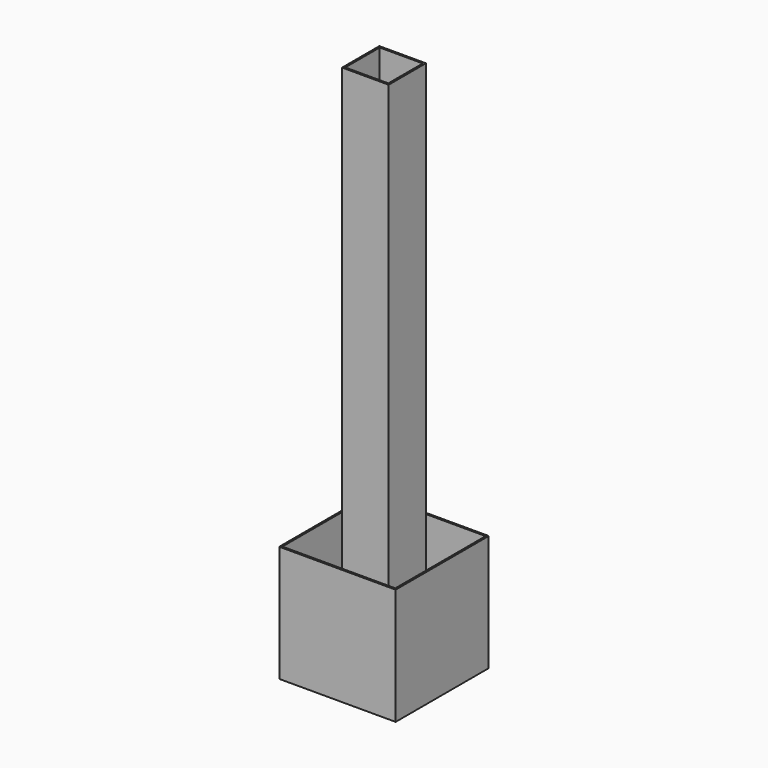
from build123d import *

# Parameters (mm, degrees)
SKETCH004_W   = 100
SKETCH004_H   = 100
PAD002_DEPTH  = 2
SKETCH005_W   = 40
SKETCH005_H   = 40
SKETCH005_W_2 = 37
SKETCH005_H_2 = 37
PAD003_DEPTH  = 458
SKETCH006_W   = 100
SKETCH006_H   = 100
SKETCH006_W_2 = 97
SKETCH006_H_2 = 97
PAD004_DEPTH  = 100


with BuildPart() as part:
    # Sketch004 → Pad002 (new body)
    with BuildSketch(Plane.XY):
        with Locations((-1000, -180)):
            Rectangle(SKETCH004_W, SKETCH004_H)
    extrude(amount=PAD002_DEPTH)

    # Sketch005 (on Face6 of Pad002) → Pad003 (join)
    with BuildSketch(Plane.XY.offset(2)):
        with Locations((-1000, -180)):
            Rectangle(SKETCH005_W, SKETCH005_H)
        with Locations((-1000, -180)):
            Rectangle(SKETCH005_W_2, SKETCH005_H_2, mode=Mode.SUBTRACT)
    extrude(amount=PAD003_DEPTH)

    # Sketch006 → Pad004 (join)
    with BuildSketch(Plane.XY):
        with Locations((-1000, -180)):
            Rectangle(SKETCH006_W, SKETCH006_H)
        with Locations((-1000, -180)):
            Rectangle(SKETCH006_W_2, SKETCH006_H_2, mode=Mode.SUBTRACT)
    extrude(amount=PAD004_DEPTH)


solid = part.part
